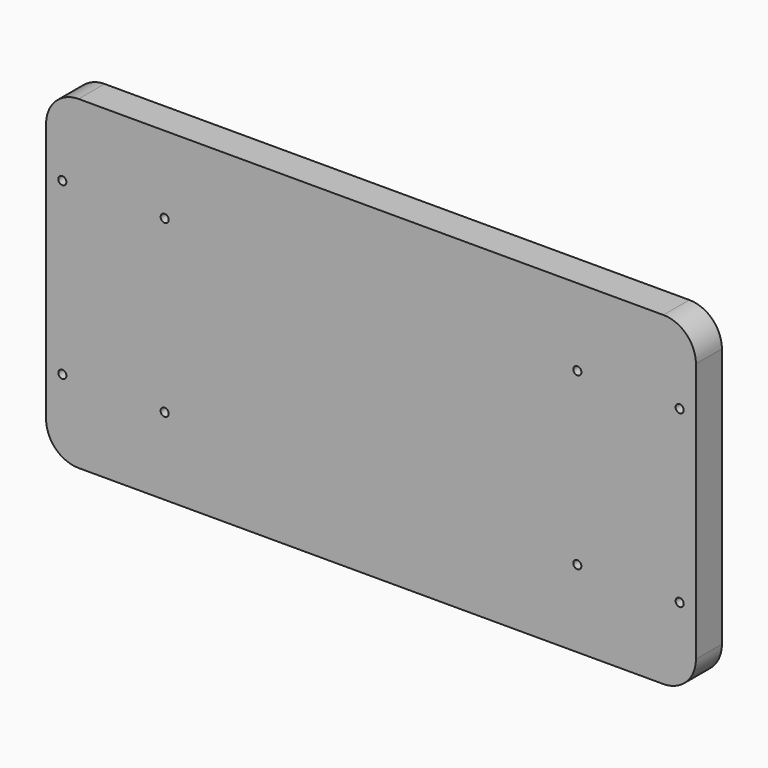
from build123d import *

# Parameters (mm, degrees)
F1_DEPTH       = 25.4
F2_D           = 6.35
F2_CBORE_D     = 9.525
F2_CBORE_DEPTH = 6.35


with BuildPart() as f1:
    # F0 (on Front) → F1 (new body)
    with BuildSketch(Plane.XZ):
        with BuildLine():
            Line((0, 228.6), (0, 25.4))
            ThreePointArc((0, 25.4), (7.4394877579, 7.4394877579), (25.4, 0))
            Line((25.4, 0), (482.6, 0))
            ThreePointArc((482.6, 0), (500.5605122421, 7.4394877579), (508, 25.4))
            Line((508, 25.4), (508, 228.6))
            ThreePointArc((508, 228.6), (500.5605122421, 246.5605122421), (482.6, 254))
            Line((482.6, 254), (25.4, 254))
            ThreePointArc((25.4, 254), (7.4394877579, 246.5605122421), (0, 228.6))
        make_face()
    extrude(amount=F1_DEPTH)

    # F2 (through all)
    with Locations(Plane(origin=(0, 0, 0), x_dir=(1, 0, 0), z_dir=(0, 1, 0))):
        with Locations((12.7, -193.675), (92.71, -193.675), (12.7, -60.325), (92.71, -60.325), (415.29, -193.675), (495.3, -193.675), (415.29, -60.325), (495.3, -60.325)):
            CounterBoreHole(F2_D / 2, F2_CBORE_D / 2, F2_CBORE_DEPTH)


solid = f1.part
